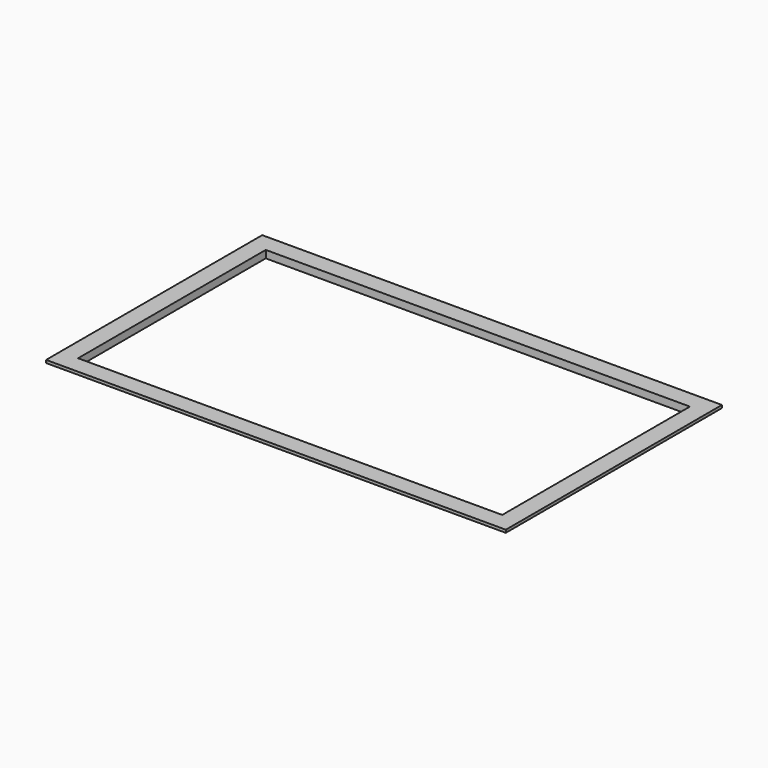
from build123d import *

# Parameters (mm, degrees)
F0_W     = 123.19
F0_H     = 72.39
F0_W_2   = 116.84
F0_H_2   = 66.04
F0_W_3   = 113.665
F0_H_3   = 62.865
F1_DEPTH = 0.75
F2_DEPTH = 1.25


with BuildPart() as f1:
    # F0 (on Top) → F1 (new body)
    with BuildSketch(Plane.XY):
        Rectangle(F0_W, F0_H)
        Rectangle(F0_W_2, F0_H_2, mode=Mode.SUBTRACT)
        Rectangle(F0_W_2, F0_H_2)
        Rectangle(F0_W_3, F0_H_3, mode=Mode.SUBTRACT)
    extrude(amount=F1_DEPTH)

    # F0 (on Top) → F2 (join)
    with BuildSketch(Plane.XY):
        Rectangle(F0_W_2, F0_H_2)
        Rectangle(F0_W_3, F0_H_3, mode=Mode.SUBTRACT)
    extrude(amount=-F2_DEPTH)


solid = f1.part
